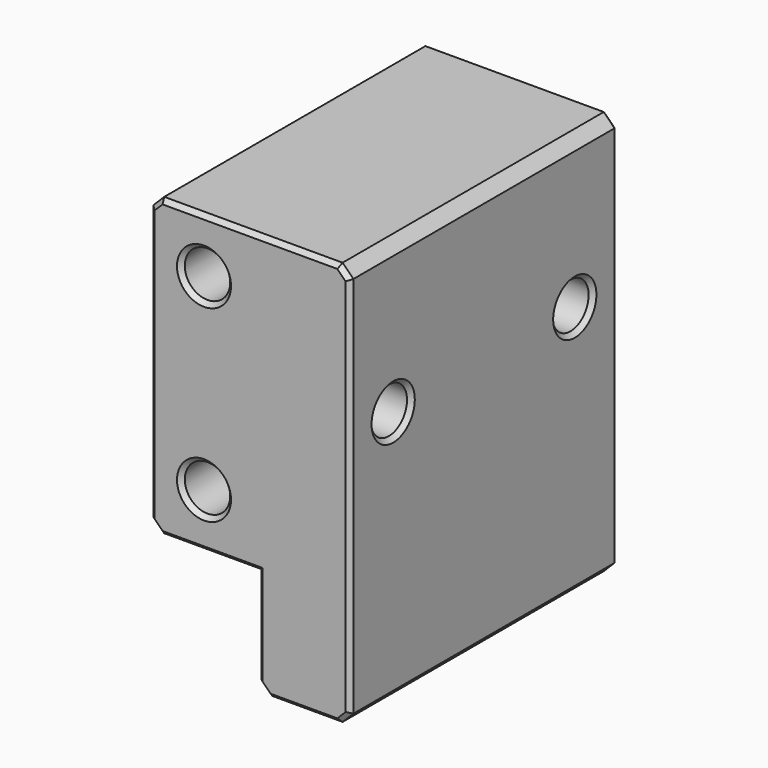
from build123d import *

# Parameters (mm, degrees)
PAD022_DEPTH    = 31
SKETCH037_R     = 2.1
POCKET013_DEPTH = 31.001
SKETCH038_R     = 2.1
POCKET014_DEPTH = 16.201
SKETCH039_R     = 2.1
POCKET015_DEPTH = 18.501
CHAMFER002_SIZE = 1
CHAMFER003_SIZE = 0.4
CHAMFER004_SIZE = 0.4


with BuildPart() as sidemotorleftclone:
    # Sketch036 → Pad022 (new body)
    with BuildSketch(Plane.XZ):
        Polygon((21.5, -16.2), (21.5, 21.2), (40, 21.2), (40, -6.2), (30, -6.2), (30, -16.2), align=None)
    extrude(amount=-PAD022_DEPTH)

    # Sketch037 → Pocket013 (cut, through all)
    with BuildSketch(Plane.XZ):
        with Locations((35, 16.2)):
            Circle(SKETCH037_R)
        with Locations((35, -1.2)):
            Circle(SKETCH037_R)
    extrude(amount=-POCKET013_DEPTH, mode=Mode.SUBTRACT)

    # Sketch038 → Pocket014 (cut, through all)
    with BuildSketch(Plane.XY):
        with Locations((25.75, 26)):
            Circle(SKETCH038_R)
        with Locations((25.75, 5)):
            Circle(SKETCH038_R)
    extrude(amount=-POCKET014_DEPTH, mode=Mode.SUBTRACT)

    # Sketch039 (on Face9 of Pocket014) → Pocket015 (cut, through all)
    with BuildSketch(Plane(origin=(40, 0, 0), x_dir=(0, 0, 1), z_dir=(1, 0, 0))):
        with Locations((7.5, -5)):
            Circle(SKETCH039_R)
        with Locations((7.5, -26)):
            Circle(SKETCH039_R)
    extrude(amount=-POCKET015_DEPTH, mode=Mode.SUBTRACT)

    # Chamfer002
    chamfer002_edges = [sidemotorleftclone.edges().sort_by_distance(p)[0] for p in [
        (40, 15.5, 21.2),
        (21.5, 15.5, -16.2),
        (30, 15.5, -16.2),
        (40, 15.5, -6.2),
        (21.5, 15.5, 21.2),
    ]]
    chamfer(chamfer002_edges, length=CHAMFER002_SIZE)

    # Chamfer003
    chamfer003_edges = [sidemotorleftclone.edges().sort_by_distance(p)[0] for p in [
        (21.5, 31, 2.5),
        (22, 31, -15.7),
        (22, 31, 20.7),
        (25.75, 31, -16.2),
        (30.75, 31, 21.2),
        (29.5, 31, -15.7),
        (39.5, 31, 20.7),
        (30, 31, -10.7),
        (40, 31, 7.5),
        (34.5, 31, -6.2),
        (39.5, 31, -5.7),
        (32.9, 31, -1.2),
        (32.9, 31, 16.2),
        (21.5, 0, 2.5),
        (22, 0, -15.7),
        (22, 0, 20.7),
        (25.75, 0, -16.2),
        (30.75, 0, 21.2),
        (29.5, 0, -15.7),
        (39.5, 0, 20.7),
        (30, 0, -10.7),
        (40, 0, 7.5),
        (34.5, 0, -6.2),
        (39.5, 0, -5.7),
        (32.9, 0, -1.2),
        (32.9, 0, 16.2),
    ]]
    chamfer(chamfer003_edges, length=CHAMFER003_SIZE)

    # Chamfer004
    chamfer004_edges = [sidemotorleftclone.edges().sort_by_distance(p)[0] for p in [
        (40, 5, 5.4),
        (40, 26, 5.4),
        (21.5, 5, 5.4),
        (21.5, 26, 5.4),
    ]]
    chamfer(chamfer004_edges, length=CHAMFER004_SIZE)


with BuildPart() as part_mirroring:
    # Part__Mirroring: instance of SideMotorLeftClone
    add(sidemotorleftclone.part.mirror(Plane(origin=(0, 0, 0), x_dir=(0, -1, 0), z_dir=(1, 0, 0))))


solid = part_mirroring.part
